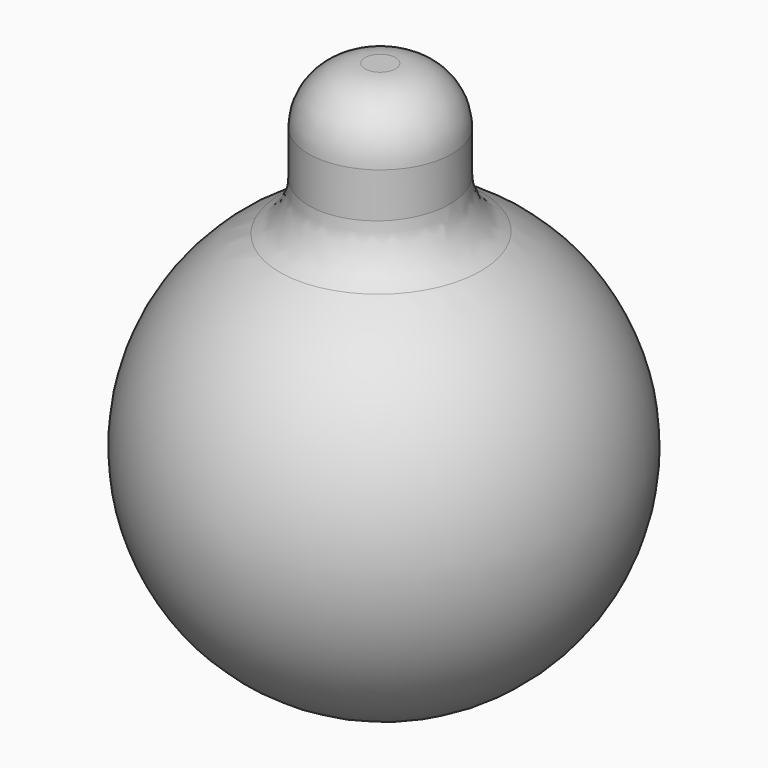
from build123d import *

# Parameters (mm, degrees)
F0_R     = 6.35
F3_DEPTH = 30
F4_R     = 5


with BuildPart() as f2:
    # F1 (on Top) → F2 (revolve)
    with BuildSketch(Plane.XY):
        with BuildLine():
            Line((0, 19.451053), (0, -18.648947))
            ThreePointArc((0, -18.648947), (19.05, 0.401053), (0, 19.451053))
        make_face()
    revolve(axis=Axis((0, 0.401053, 0), (0, 1, 0)))

    # F0 (on Top) → F3 (join)
    with BuildSketch(Plane.XY):
        Circle(F0_R)
    extrude(amount=F3_DEPTH)

    # F4
    f4_edges = [f2.edges().sort_by_distance(p)[0] for p in [
        (19.05, 0.401053, 0),
        (-6.35, -1.7e-05, 17.956034),
        (-6.35, 0, 30),
    ]]
    fillet(f4_edges, radius=F4_R)


solid = f2.part
